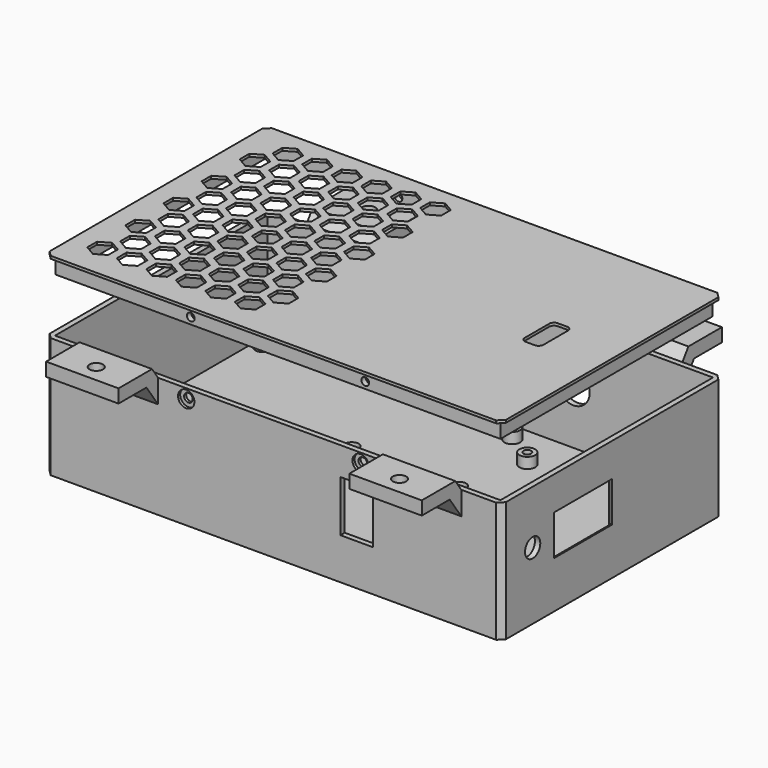
from build123d import *

# Parameters (mm, degrees)
SKETCH_W                        = 170
SKETCH_H                        = 103
PAD_DEPTH                       = 5
SKETCH001_W                     = 170
SKETCH001_H                     = 103
SKETCH001_W_2                   = 166
SKETCH001_H_2                   = 99
PAD001_DEPTH                    = 40
CHAMFER_SIZE                    = 2
SKETCH002_R                     = 1.45
POCKET_DEPTH                    = 1
SKETCH003_R                     = 2.95
SKETCH003_R_2                   = 1.45
PAD002_DEPTH                    = 4
SKETCH004_R                     = 2.6
POCKET001_DEPTH                 = 5
PAD003_DEPTH                    = 70
POCKET002_DEPTH                 = 43
SKETCH007_R                     = 6.05
POCKET003_DEPTH                 = 2
HOLE_D                          = 5
HOLE_DEPTH                      = 25
HOLE_CSINK_D                    = 7
HOLE_CSINK_ANGLE                = 80
SKETCH015_W                     = 12.1
SKETCH015_H                     = 19.1
POCKET007_DEPTH                 = 2
SKETCH016_R                     = 3.55
SKETCH016_W                     = 27
SKETCH016_H                     = 15
POCKET008_DEPTH                 = 2
SKETCH017_W                     = 27
SKETCH017_H                     = 5
SKETCH017_H_2                   = 9
POCKET009_DEPTH                 = 1.5
SKETCH019_W                     = 1
SKETCH019_H                     = 29
POCKET011_DEPTH                 = 1
SKETCH020_R                     = 2.45
SKETCH020_R_2                   = 1.45
PAD007_DEPTH                    = 5
SKETCH021_R                     = 0.975
PAD008_DEPTH                    = 4
SKETCH022_R                     = 3.05
POCKET012_DEPTH                 = 1
SKETCH023_R                     = 3.05
POCKET013_DEPTH                 = 1
SKETCH024_R                     = 1.6
POCKET014_DEPTH                 = 5
SKETCH025_R                     = 1.6
POCKET015_DEPTH                 = 5
SKETCH026_W                     = 165.717158
SKETCH026_H                     = 98.717158
SKETCH026_W_2                   = 161.717158
SKETCH026_H_2                   = 94.717158
PAD009_DEPTH                    = 6
PAD010_DEPTH                    = 1
SKETCH028_R                     = 1.45
POCKET016_DEPTH                 = 100.859579
POCKET017_DEPTH                 = 1
POCKET017_LINEARPATTERN_2_DEPTH = 1
POCKET017_LINEARPATTERN_3_DEPTH = 1
POCKET017_LINEARPATTERN_4_DEPTH = 1
POCKET017_LINEARPATTERN_5_DEPTH = 1
POCKET017_LINEARPATTERN_6_DEPTH = 1
LINEARPATTERN001_COUNT          = 5
LINEARPATTERN001_PITCH          = 17.75
POCKET018_DEPTH                 = 1


with BuildPart() as body:
    # Sketch → Pad (new body)
    with BuildSketch(Plane.XY):
        Rectangle(SKETCH_W, SKETCH_H)
    extrude(amount=PAD_DEPTH)

    # Sketch001 (on Face6 of Pad) → Pad001 (join)
    with BuildSketch(Plane.XY.offset(5)):
        Rectangle(SKETCH001_W, SKETCH001_H)
        Rectangle(SKETCH001_W_2, SKETCH001_H_2, mode=Mode.SUBTRACT)
    extrude(amount=PAD001_DEPTH)

    # Chamfer
    chamfer_edges = [body.edges().sort_by_distance(p)[0] for p in [
        (85, -51.5, 22.5),
        (85, 51.5, 22.5),
        (-85, 51.5, 22.5),
        (-85, -51.5, 22.5),
    ]]
    chamfer(chamfer_edges, length=CHAMFER_SIZE)

    # Sketch002 (on Face15 of Chamfer) → Pocket (cut)
    with BuildSketch(Plane.XY.offset(5)):
        with Locations((-79, 42.5)):
            Circle(SKETCH002_R)
        with Locations((13.8, -42.5)):
            Circle(SKETCH002_R)
        with Locations((27, 33)):
            Circle(SKETCH002_R)
        with Locations((68, 33)):
            Circle(SKETCH002_R)
        with Locations((27, -33)):
            Circle(SKETCH002_R)
        with Locations((68, -33)):
            Circle(SKETCH002_R)
        with Locations((13.8, 42.5)):
            Circle(SKETCH002_R)
        with Locations((-79, -42.5)):
            Circle(SKETCH002_R)
    extrude(amount=-POCKET_DEPTH, mode=Mode.SUBTRACT)

    # Sketch003 (on Face15 of Pocket) → Pad002 (join)
    with BuildSketch(Plane.XY.offset(5)):
        with Locations((-79, -42.5)):
            Circle(SKETCH003_R)
        with Locations((-79, -42.5)):
            Circle(SKETCH003_R_2, mode=Mode.SUBTRACT)
        with Locations((13.8, -42.5)):
            Circle(SKETCH003_R)
        with Locations((13.8, -42.5)):
            Circle(SKETCH003_R_2, mode=Mode.SUBTRACT)
        with Locations((27, -33)):
            Circle(SKETCH003_R)
        with Locations((27, -33)):
            Circle(SKETCH003_R_2, mode=Mode.SUBTRACT)
        with Locations((68, -33)):
            Circle(SKETCH003_R)
        with Locations((68, -33)):
            Circle(SKETCH003_R_2, mode=Mode.SUBTRACT)
        with Locations((68, 33)):
            Circle(SKETCH003_R)
        with Locations((68, 33)):
            Circle(SKETCH003_R_2, mode=Mode.SUBTRACT)
        with Locations((27, 33)):
            Circle(SKETCH003_R)
        with Locations((27, 33)):
            Circle(SKETCH003_R_2, mode=Mode.SUBTRACT)
        with Locations((13.8, 42.5)):
            Circle(SKETCH003_R)
        with Locations((13.8, 42.5)):
            Circle(SKETCH003_R_2, mode=Mode.SUBTRACT)
        with Locations((-79, 42.5)):
            Circle(SKETCH003_R)
        with Locations((-79, 42.5)):
            Circle(SKETCH003_R_2, mode=Mode.SUBTRACT)
    extrude(amount=PAD002_DEPTH)

    # Sketch004 (on Face31 of Pad002) → Pocket001 (cut)
    with BuildSketch(Plane.XY.offset(5)):
        with Locations((-20, 10)):
            Circle(SKETCH004_R)
        with Locations((20, 10)):
            Circle(SKETCH004_R)
        with Locations((-20, -10)):
            Circle(SKETCH004_R)
        with Locations((20, -10)):
            Circle(SKETCH004_R)
    extrude(amount=-POCKET001_DEPTH, mode=Mode.SUBTRACT)

    # Sketch005 → Pad003 (join, symmetric)
    with BuildSketch(Plane.YZ):
        Polygon((-51.5, 45), (-51.5, 36.282766), (-56.903665, 44), (-69.903665, 44), (-69.903665, 49), (-54.30083, 49), align=None)
        Polygon((51.5, 45), (51.5, 36.282766), (56.903665, 44), (69.903665, 44), (69.903665, 49), (54.30083, 49), align=None)
    extrude(amount=PAD003_DEPTH, both=True)

    # Sketch006 → Pocket002 (cut, symmetric)
    with BuildSketch(Plane.YZ):
        Polygon((-51.5, 45), (-54.30083, 49), (-69.903665, 49), (-69.903665, 44), (-56.903665, 44), (-51.5, 36.282766), align=None)
        Polygon((51.5, 36.282766), (51.5, 45), (54.30083, 49), (69.903665, 49), (69.903665, 44), (56.903665, 44), align=None)
    extrude(amount=POCKET002_DEPTH, both=True, mode=Mode.SUBTRACT)

    # Sketch007 (on Face13 of Pocket002) → Pocket003 (cut)
    with BuildSketch(Plane.XZ.offset(-49.5)):
        with Locations((31, 25)):
            Circle(SKETCH007_R)
    extrude(amount=-POCKET003_DEPTH, mode=Mode.SUBTRACT)

    # Hole
    with Locations(Plane(origin=(0, 0, 44), x_dir=(1, 0, 0), z_dir=(0, 0, -1))):
        with Locations((-56.5, 63.403665), (56.5, 63.403665), (56.5, -63.403665), (-56.5, -63.403665)):
            CounterSinkHole(HOLE_D / 2, HOLE_CSINK_D / 2, depth=HOLE_DEPTH, counter_sink_angle=HOLE_CSINK_ANGLE)

    # Sketch015 (on Face34 of Hole) → Pocket007 (cut)
    with BuildSketch(Plane(origin=(0, -49.5, 0), x_dir=(-1, 0, 0), z_dir=(0, 1, 0))):
        with Locations((-31, 25)):
            Rectangle(SKETCH015_W, SKETCH015_H)
    extrude(amount=-POCKET007_DEPTH, mode=Mode.SUBTRACT)

    # Sketch016 (on Face31 of Pocket007) → Pocket008 (cut)
    with BuildSketch(Plane(origin=(83, 0, 0), x_dir=(0, -1, 0), z_dir=(-1, 0, 0))):
        with Locations((37, 25)):
            Circle(SKETCH016_R)
        with Locations((13.5, 25)):
            Rectangle(SKETCH016_W, SKETCH016_H)
    extrude(amount=-POCKET008_DEPTH, mode=Mode.SUBTRACT)

    # Sketch017 (on Face31 of Pocket008) → Pocket009 (cut)
    with BuildSketch(Plane(origin=(83, 0, 0), x_dir=(0, -1, 0), z_dir=(-1, 0, 0))):
        with Locations((13.5, 35)):
            Rectangle(SKETCH017_W, SKETCH017_H)
        with Locations((13.5, 13)):
            Rectangle(SKETCH017_W, SKETCH017_H_2)
    extrude(amount=-POCKET009_DEPTH, mode=Mode.SUBTRACT)

    # Sketch019 (on Face31 of Pocket009) → Pocket011 (cut)
    with BuildSketch(Plane(origin=(83, 0, 0), x_dir=(0, -1, 0), z_dir=(-1, 0, 0))):
        with Locations((-0.5, 23)):
            Rectangle(SKETCH019_W, SKETCH019_H)
        with Locations((27.5, 23)):
            Rectangle(SKETCH019_W, SKETCH019_H)
    extrude(amount=-POCKET011_DEPTH, mode=Mode.SUBTRACT)

    # Sketch020 (on Face31 of Pocket011) → Pad007 (join)
    with BuildSketch(Plane(origin=(83, 0, 0), x_dir=(0, -1, 0), z_dir=(-1, 0, 0))):
        with Locations((45, 30)):
            Circle(SKETCH020_R)
        with Locations((45, 30)):
            Circle(SKETCH020_R_2, mode=Mode.SUBTRACT)
    extrude(amount=PAD007_DEPTH)

    # Sketch021 (on Face64 of Pad007) → Pad008 (join)
    with BuildSketch(Plane(origin=(84.5, 0, 0), x_dir=(0, -1, 0), z_dir=(-1, 0, 0))):
        with Locations((1.75, 11.7)):
            Circle(SKETCH021_R)
        with Locations((25.25, 11.7)):
            Circle(SKETCH021_R)
        with Locations((1.75, 35.5)):
            Circle(SKETCH021_R)
        with Locations((25.25, 35.5)):
            Circle(SKETCH021_R)
    extrude(amount=PAD008_DEPTH)

    # Sketch022 (on Face5 of Pad008) → Pocket012 (cut)
    with BuildSketch(Plane(origin=(0, 51.5, 0), x_dir=(-1, 0, 0), z_dir=(0, 1, 0))):
        with Locations((-32.5, 41.45)):
            Circle(SKETCH022_R)
        with Locations((32.5, 41.45)):
            Circle(SKETCH022_R)
    extrude(amount=-POCKET012_DEPTH, mode=Mode.SUBTRACT)

    # Sketch023 (on Face22 of Pocket012) → Pocket013 (cut)
    with BuildSketch(Plane.XZ.offset(51.5)):
        with Locations((-32.5, 41.45)):
            Circle(SKETCH023_R)
        with Locations((32.5, 41.45)):
            Circle(SKETCH023_R)
    extrude(amount=-POCKET013_DEPTH, mode=Mode.SUBTRACT)

    # Sketch024 (on Face77 of Pocket013) → Pocket014 (cut)
    with BuildSketch(Plane.XZ.offset(50.5)):
        with Locations((-32.5, 41.45)):
            Circle(SKETCH024_R)
        with Locations((32.5, 41.45)):
            Circle(SKETCH024_R)
    extrude(amount=-POCKET014_DEPTH, mode=Mode.SUBTRACT)

    # Sketch025 (on Face41 of Pocket014) → Pocket015 (cut)
    with BuildSketch(Plane(origin=(0, 50.5, 0), x_dir=(-1, 0, 0), z_dir=(0, 1, 0))):
        with Locations((-32.5, 41.45)):
            Circle(SKETCH025_R)
        with Locations((32.5, 41.45)):
            Circle(SKETCH025_R)
    extrude(amount=-POCKET015_DEPTH, mode=Mode.SUBTRACT)


with BuildPart() as body002:
    # Sketch026 (on Face12 of ShapeBinder) → Pad009 (new body)
    with BuildSketch(Plane.XY.offset(45)):
        Rectangle(SKETCH026_W, SKETCH026_H)
        Rectangle(SKETCH026_W_2, SKETCH026_H_2, mode=Mode.SUBTRACT)
    extrude(amount=-PAD009_DEPTH)

    # Sketch027 (on Face9 of Pad009) → Pad010 (join)
    with BuildSketch(Plane.XY.offset(45)):
        Polygon((-83, -51.5), (83, -51.5), (85, -49.5), (85, 49.5), (83, 51.5), (-83, 51.5), (-85, 49.5), (-85, -49.5), align=None)
    extrude(amount=PAD010_DEPTH)

    # Sketch028 (on Face6 of Pad010) → Pocket016 (cut, through all)
    with BuildSketch(Plane(origin=(0, 49.358579, 0), x_dir=(-1, 0, 0), z_dir=(0, 1, 0))):
        with Locations((-32.5, 41.45)):
            Circle(SKETCH028_R)
        with Locations((32.5, 41.45)):
            Circle(SKETCH028_R)
    extrude(amount=-POCKET016_DEPTH, mode=Mode.SUBTRACT)

    # Sketch029 (on Face23 of Pocket016) → Pocket017 (cut)
    with BuildSketch(Plane.XY.offset(46)):
        Polygon((-70.25, 30.334936), (-70.25, 34.834936), (-74.147114, 37.084936), (-78.044229, 34.834936), (-78.044229, 30.334936), (-74.147114, 28.084936), align=None)
        Polygon((-69, 37), (-65.102886, 39.25), (-65.102886, 43.75), (-69, 46), (-72.897114, 43.75), (-72.897114, 39.25), align=None)
    pocket017 = extrude(amount=-POCKET017_DEPTH, mode=Mode.SUBTRACT)

    # Sketch029 LinearPattern 2 → Pocket017 LinearPattern 2 (cut)
    with BuildSketch(Plane(origin=(11, 0, 46), x_dir=(1, 0, 0), z_dir=(0, 0, 1))):
        Polygon((-70.25, 30.334936), (-70.25, 34.834936), (-74.147114, 37.084936), (-78.044229, 34.834936), (-78.044229, 30.334936), (-74.147114, 28.084936), align=None)
        Polygon((-69, 37), (-65.102886, 39.25), (-65.102886, 43.75), (-69, 46), (-72.897114, 43.75), (-72.897114, 39.25), align=None)
    pocket017_linearpattern_2 = extrude(amount=-POCKET017_LINEARPATTERN_2_DEPTH, mode=Mode.SUBTRACT)

    # Sketch029 LinearPattern 3 → Pocket017 LinearPattern 3 (cut)
    with BuildSketch(Plane(origin=(22, 0, 46), x_dir=(1, 0, 0), z_dir=(0, 0, 1))):
        Polygon((-70.25, 30.334936), (-70.25, 34.834936), (-74.147114, 37.084936), (-78.044229, 34.834936), (-78.044229, 30.334936), (-74.147114, 28.084936), align=None)
        Polygon((-69, 37), (-65.102886, 39.25), (-65.102886, 43.75), (-69, 46), (-72.897114, 43.75), (-72.897114, 39.25), align=None)
    pocket017_linearpattern_3 = extrude(amount=-POCKET017_LINEARPATTERN_3_DEPTH, mode=Mode.SUBTRACT)

    # Sketch029 LinearPattern 4 → Pocket017 LinearPattern 4 (cut)
    with BuildSketch(Plane(origin=(33, 0, 46), x_dir=(1, 0, 0), z_dir=(0, 0, 1))):
        Polygon((-70.25, 30.334936), (-70.25, 34.834936), (-74.147114, 37.084936), (-78.044229, 34.834936), (-78.044229, 30.334936), (-74.147114, 28.084936), align=None)
        Polygon((-69, 37), (-65.102886, 39.25), (-65.102886, 43.75), (-69, 46), (-72.897114, 43.75), (-72.897114, 39.25), align=None)
    pocket017_linearpattern_4 = extrude(amount=-POCKET017_LINEARPATTERN_4_DEPTH, mode=Mode.SUBTRACT)

    # Sketch029 LinearPattern 5 → Pocket017 LinearPattern 5 (cut)
    with BuildSketch(Plane(origin=(44, 0, 46), x_dir=(1, 0, 0), z_dir=(0, 0, 1))):
        Polygon((-70.25, 30.334936), (-70.25, 34.834936), (-74.147114, 37.084936), (-78.044229, 34.834936), (-78.044229, 30.334936), (-74.147114, 28.084936), align=None)
        Polygon((-69, 37), (-65.102886, 39.25), (-65.102886, 43.75), (-69, 46), (-72.897114, 43.75), (-72.897114, 39.25), align=None)
    pocket017_linearpattern_5 = extrude(amount=-POCKET017_LINEARPATTERN_5_DEPTH, mode=Mode.SUBTRACT)

    # Sketch029 LinearPattern 6 → Pocket017 LinearPattern 6 (cut)
    with BuildSketch(Plane(origin=(55, 0, 46), x_dir=(1, 0, 0), z_dir=(0, 0, 1))):
        Polygon((-70.25, 30.334936), (-70.25, 34.834936), (-74.147114, 37.084936), (-78.044229, 34.834936), (-78.044229, 30.334936), (-74.147114, 28.084936), align=None)
        Polygon((-69, 37), (-65.102886, 39.25), (-65.102886, 43.75), (-69, 46), (-72.897114, 43.75), (-72.897114, 39.25), align=None)
    pocket017_linearpattern_6 = extrude(amount=-POCKET017_LINEARPATTERN_6_DEPTH, mode=Mode.SUBTRACT)

    # LinearPattern001: Pocket017, Pocket017 LinearPattern 2, Pocket017 LinearPattern 3, Pocket017 LinearPattern 4, Pocket017 LinearPattern 5, Pocket017 LinearPattern 6 ×5
    with Locations(*[(0, -i * LINEARPATTERN001_PITCH, 0) for i in range(1, LINEARPATTERN001_COUNT)]):
        add(pocket017, mode=Mode.SUBTRACT)
        add(pocket017_linearpattern_2, mode=Mode.SUBTRACT)
        add(pocket017_linearpattern_3, mode=Mode.SUBTRACT)
        add(pocket017_linearpattern_4, mode=Mode.SUBTRACT)
        add(pocket017_linearpattern_5, mode=Mode.SUBTRACT)
        add(pocket017_linearpattern_6, mode=Mode.SUBTRACT)

    # Sketch030 (on Face23 of MultiTransform) → Pocket018 (cut)
    with BuildSketch(Plane.XY.offset(46)):
        with BuildLine():
            Line((57, 5.7), (57, -5.7))
            ThreePointArc((57, -5.7), (57.527208, -6.972792), (58.8, -7.5))
            Line((58.8, -7.5), (62.2, -7.5))
            ThreePointArc((62.2, -7.5), (63.472792, -6.972792), (64, -5.7))
            Line((64, -5.7), (64, 5.7))
            ThreePointArc((64, 5.7), (63.472792, 6.972792), (62.2, 7.5))
            Line((62.2, 7.5), (58.8, 7.5))
            ThreePointArc((58.8, 7.5), (57.527208, 6.972792), (57, 5.7))
        make_face()
    extrude(amount=-POCKET018_DEPTH, mode=Mode.SUBTRACT)


with BuildPart() as body002_1:
    # Body002 placement: moved
    add(body002.part.moved(Location((0, 0, 26))))


solid = Compound([body.part, body002_1.part])
